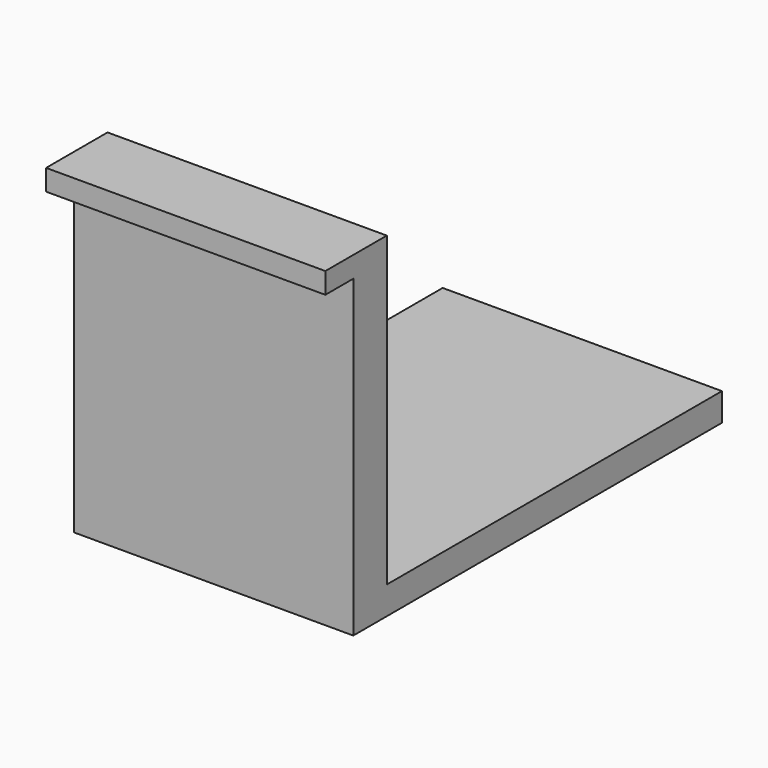
from build123d import *

# Parameters (mm, degrees)
F0_W     = 40
F0_H     = 40
F1_DEPTH = 4
F0_H_2   = 6
F2_DEPTH = 48
F3_W     = 40
F3_H     = 3
F4_DEPTH = 5
F6_DEPTH = 3
F7_DEPTH = 20


with BuildPart() as f1:
    # F0 (on Top) → F1 (new body)
    with BuildSketch(Plane.XY):
        with Locations((20, 26)):
            Rectangle(F0_W, F0_H)
    extrude(amount=F1_DEPTH)

    # F0 (on Top) → F2 (join)
    with BuildSketch(Plane.XY):
        with Locations((20, 3)):
            Rectangle(F0_W, F0_H_2)
    extrude(amount=F2_DEPTH)

    # F3 (on face) → F4 (join)
    with BuildSketch(Plane.XZ):
        with Locations((20, 46.5)):
            Rectangle(F3_W, F3_H)
    extrude(amount=F4_DEPTH)

    # F5 (on face) → F6 (join)
    with BuildSketch(Plane(origin=(0, 0, 0), x_dir=(0, -1, 0), z_dir=(-1, 0, 0))):
        Polygon((-6, 48), (-46, 4), (-6, 4), align=None)
    extrude(amount=-F6_DEPTH)

    # F1_face (on face) → F7 (join)
    with BuildSketch(Plane(origin=(20, 46, 2), x_dir=(-1, 0, 0), z_dir=(0, 1, 0))):
        Polygon((-20, 2), (-20, -2), (20, -2), (20, 2), (17, 2), align=None)
    extrude(amount=F7_DEPTH)


solid = f1.part
